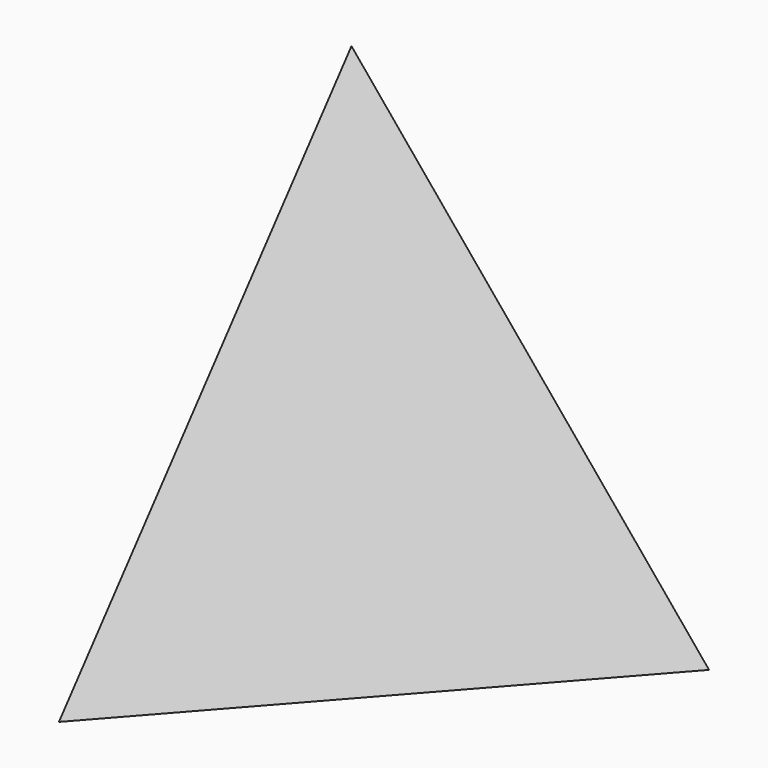
from build123d import *


with BuildPart() as f3:
    # F0 (on Top) → F3 section 0
    with BuildSketch(Plane.XY, mode=Mode.PRIVATE) as f3_s0:
        Polygon((113.802942, 38.064292), (-89.866115, 79.524093), (-23.936827, -117.588385), align=None)
    loft([f3_s0.sketch, Vertex(0, 0, 200)])


solid = f3.part
